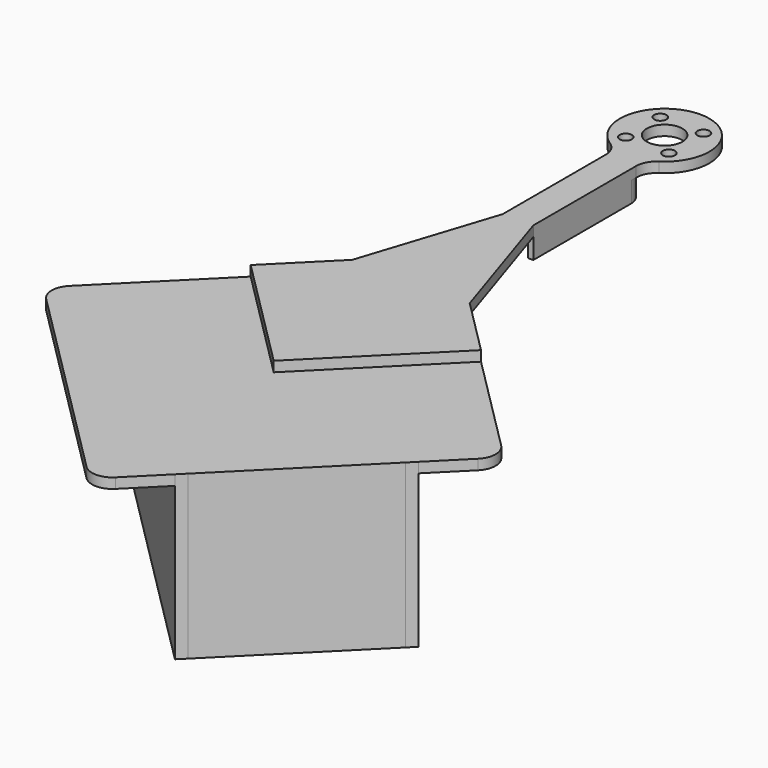
from build123d import *

# Parameters (mm, degrees)
F0_R      = 1.905
F0_R_2    = 5.55625
F1_DEPTH  = 3.175
F3_DEPTH  = 50.8
F4_W      = 3.175
F4_H      = 3.175
F5_DEPTH  = 98.425
F7_DEPTH  = 1.778
F9_DEPTH  = 3.175
F10_R     = 6.35
F12_DEPTH = 6.35
F13_R     = 5.08
F14_R     = 2.54
F15_R     = 6.35


with BuildPart() as f1:
    # F0 (on Top) → F1 (new body)
    with BuildSketch(Plane.XY):
        with BuildLine():
            Line((4.7625, 95.25), (4.7625, 139.2668551462))
            ThreePointArc((4.7625, 139.2668551462), (0, 166.37), (-4.7625, 139.2668551462))
            Line((-4.7625, 139.2668551462), (-4.7625, 95.25))
            Line((-4.7625, 95.25), (-18.3210860538, 53.5209629147))
            Line((-18.3210860538, 53.5209629147), (-35.9210244843, 35.9210244843))
            Line((-35.9210244843, 35.9210244843), (0, 0))
            Line((0, 0), (35.9210244843, 35.9210244843))
            Line((35.9210244843, 35.9210244843), (18.3210860538, 53.5209629147))
            Line((18.3210860538, 53.5209629147), (4.7625, 95.25))
        make_face()
        with Locations((-6.7351920908, 145.6648079092)):
            Circle(F0_R, mode=Mode.SUBTRACT)
        with Locations((0, 152.4)):
            Circle(F0_R_2, mode=Mode.SUBTRACT)
        with Locations((-6.7351920908, 159.1351920908)):
            Circle(F0_R, mode=Mode.SUBTRACT)
        with Locations((6.7351920908, 145.6648079092)):
            Circle(F0_R, mode=Mode.SUBTRACT)
        with Locations((6.7351920908, 159.1351920908)):
            Circle(F0_R, mode=Mode.SUBTRACT)
    extrude(amount=-F1_DEPTH)

    # F10
    f10_edges = [f1.edges().sort_by_distance(p)[0] for p in [
        (-4.7625, 139.266855, -1.5875),
        (4.7625, 139.266855, -1.5875),
    ]]
    fillet(f10_edges, radius=F10_R)

    # F11 (on face) → F12 (join)
    with BuildSketch(Plane(origin=(0, 0, -3.175), x_dir=(1, 0, 0), z_dir=(0, 0, -1))):
        with BuildLine():
            Line((-3.175, -95.25), (-4.7625, -95.25))
            Line((-4.7625, -95.25), (-4.7625, -135.3878060277))
            Line((-4.7625, -135.3878060277), (-3.0270188015, -137.3250988614))
            ThreePointArc((-3.0270188015, -137.3250988614), (0, -138.6774106095), (3.0270188015, -137.3250988614))
            Line((3.0270188015, -137.3250988614), (4.7625, -135.3878060277))
            Line((4.7625, -135.3878060277), (4.7625, -95.25))
            Line((4.7625, -95.25), (3.175, -95.25))
            Line((3.175, -95.25), (3.175, -134.7807275217))
            Line((3.175, -134.7807275217), (1.8918867509, -136.2130484851))
            ThreePointArc((1.8918867509, -136.2130484851), (0, -137.0582433277), (-1.8918867509, -136.2130484851))
            Line((-1.8918867509, -136.2130484851), (-3.175, -134.7807275217))
            Line((-3.175, -134.7807275217), (-3.175, -95.25))
        make_face()
    extrude(amount=F12_DEPTH)

    # F13
    f13_edges = [f1.edges().sort_by_distance(p)[0] for p in [
        (-4.7625, 135.387806, -6.35),
        (4.7625, 135.387806, -6.35),
    ]]
    fillet(f13_edges, radius=F13_R)

    # F14
    f14_edges = [f1.edges().sort_by_distance(p)[0] for p in [
        (3.175, 134.780728, -6.35),
        (-3.175, 134.780728, -6.35),
    ]]
    fillet(f14_edges, radius=F14_R)


with BuildPart() as f3:
    # F2 (on face) → F3 (new body)
    with BuildSketch(Plane(origin=(0, 0, -3.175), x_dir=(1, 0, 0), z_dir=(0, 0, -1))):
        Polygon((17.06248663, 54.7795623385), (14.8174225998, 57.0246263688), (-57.0246263688, -14.8174225998), (-54.7795623385, -17.06248663), (14.8174225998, 52.5344983083), (52.5344983083, 14.8174225998), (-17.06248663, -54.7795623385), (-14.8174225998, -57.0246263688), (57.0246263688, 14.8174225998), (54.7795623385, 17.06248663), align=None)
    extrude(amount=F3_DEPTH)

    # F4 (on face) → F5 (join, through all)
    with BuildSketch(Plane(origin=(-35.9210244843, 35.9210244843, 0), x_dir=(-0.7071067812, -0.7071067812, 0), z_dir=(-0.7071067812, 0.7071067812, 0))):
        Polygon((-26.67, -19.05), (-26.67, -20.32), (-23.495, -20.32), (-23.495, -17.145), (-26.67, -13.97), align=None)
        with Locations((-25.0825, -24.0665)):
            Rectangle(F4_W, F4_H)
        with Locations((25.0825, -24.0665)):
            Rectangle(F4_W, F4_H)
        Polygon((26.67, -13.97), (23.495, -17.145), (23.495, -20.32), (26.67, -20.32), (26.67, -19.05), align=None)
        with Locations((-25.0825, -41.529)):
            Rectangle(F4_W, F4_H)
        Polygon((-26.67, -31.4325), (-26.67, -36.5125), (-26.67, -37.7825), (-23.495, -37.7825), (-23.495, -34.6075), align=None)
        Polygon((26.67, -37.7825), (26.67, -36.5125), (26.67, -31.4325), (23.495, -34.6075), (23.495, -37.7825), align=None)
        with Locations((25.0825, -41.529)):
            Rectangle(F4_W, F4_H)
    extrude(amount=-F5_DEPTH)

    # F8 (on face) → F9 (join)
    with BuildSketch(Plane(origin=(0, 0, -3.175), x_dir=(1, 0, 0), z_dir=(0, 0, -1))):
        Polygon((71.8420489686, 0), (0, 71.8420489686), (-71.8420489686, 0), (0, -71.8420489686), align=None)
    extrude(amount=F9_DEPTH)

    # F15
    f15_edges = [f3.edges().sort_by_distance(p)[0] for p in [
        (0, 71.842049, -4.7625),
        (-71.842049, 0, -4.7625),
        (0, -71.842049, -4.7625),
        (71.842049, 0, -4.7625),
    ]]
    fillet(f15_edges, radius=F15_R)


with BuildPart() as f7:
    # F6 (on face) → F7 (new body)
    with BuildSketch(Plane(origin=(0, 0, -20.32), x_dir=(1, 0, 0), z_dir=(0, 0, -1))):
        Polygon((51.6364726961, 15.7154482119), (15.7154482119, 51.6364726961), (-41.758190963, -5.8371664787), (-5.8371664787, -41.758190963), align=None)
    extrude(amount=F7_DEPTH)


solid = Compound([f1.part, f3.part, f7.part])
